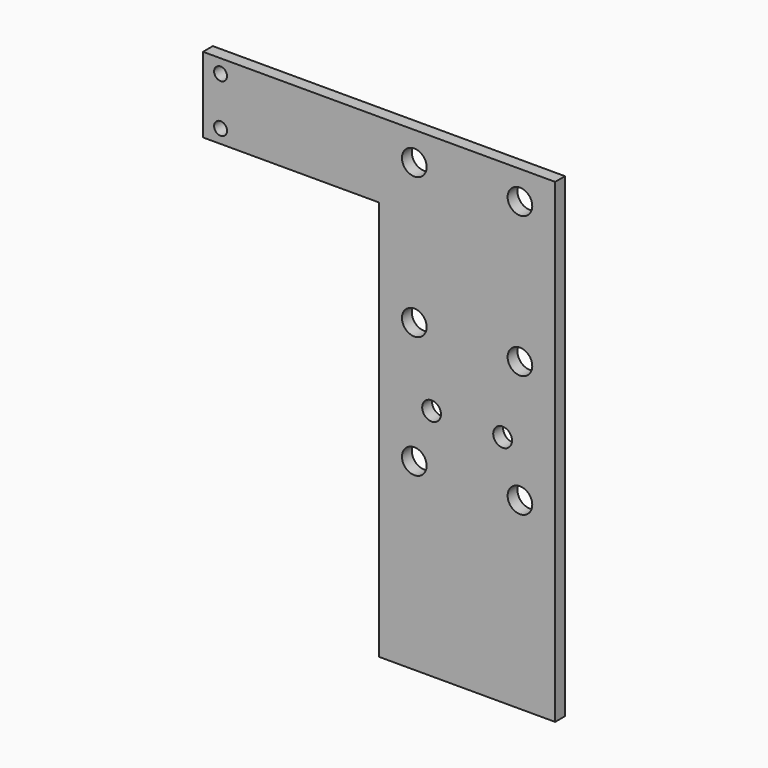
from build123d import *

# Parameters (mm, degrees)
F0_W     = 30
F0_H     = 81
F1_DEPTH = 2.1
F2_R     = 2.1
F2_R_2   = 1.6
F3_DEPTH = 2.101
F4_W     = 2.1
F4_H     = 12.85
F5_DEPTH = 30
F6_R     = 1.1
F7_DEPTH = 25


with BuildPart() as f1:
    # F0 (on Front) → F1 (new body)
    with BuildSketch(Plane.XZ):
        Rectangle(F0_W, F0_H)
    extrude(amount=F1_DEPTH)

    # F2 (on face) → F3 (cut, through all)
    with BuildSketch(Plane.XZ.offset(2.1)):
        with Locations((9, 35.6)):
            Circle(F2_R)
        with Locations((9, 11.6)):
            Circle(F2_R)
        with Locations((-9, 35.6)):
            Circle(F2_R)
        with Locations((-9, 11.6)):
            Circle(F2_R)
        with Locations((9, -9.2)):
            Circle(F2_R)
        with Locations((-9, -9.2)):
            Circle(F2_R)
        with Locations((6.05, -0.7)):
            Circle(F2_R_2)
        with Locations((-6.05, -0.7)):
            Circle(F2_R_2)
    extrude(amount=-F3_DEPTH, mode=Mode.SUBTRACT)

    # F4 (on face) → F5 (join)
    with BuildSketch(Plane(origin=(-15, 0, 0), x_dir=(0, -1, 0), z_dir=(-1, 0, 0))):
        with Locations((1.05, 34.075)):
            Rectangle(F4_W, F4_H)
    extrude(amount=F5_DEPTH)

    # F6 (on face) → F7 (cut)
    with BuildSketch(Plane.XZ.offset(2.1)):
        with Locations((-42, 38.175)):
            Circle(F6_R)
        with Locations((-42, 29.975)):
            Circle(F6_R)
    extrude(amount=-F7_DEPTH, mode=Mode.SUBTRACT)


solid = f1.part
